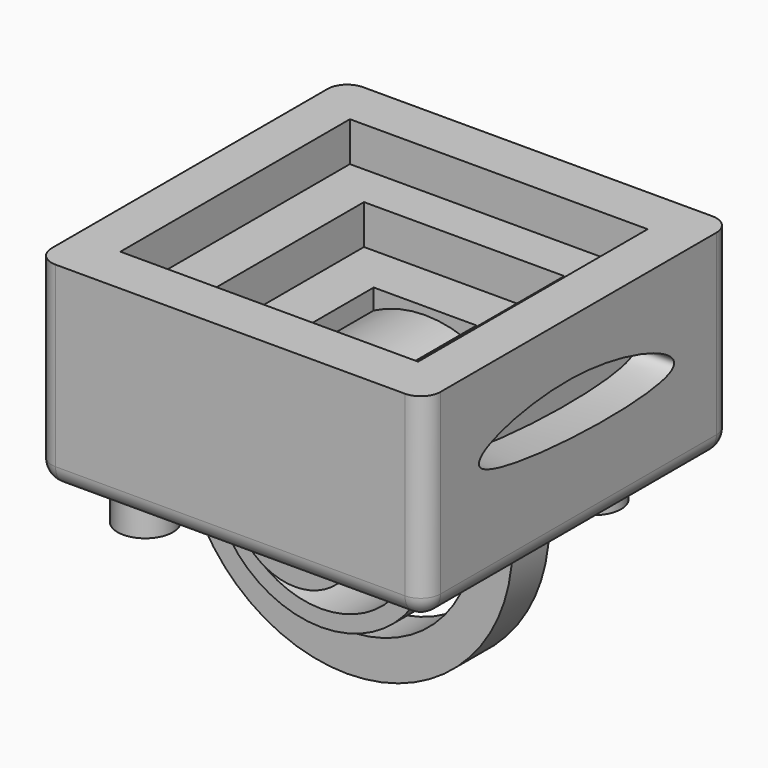
from build123d import *

# Parameters (mm, degrees)
F0_W      = 24.9930880964
F0_H      = 24.6987380087
F1_DEPTH  = 12.7
F2_W      = 19.1328264773
F2_H      = 18.4370856732
F3_DEPTH  = 2.54
F4_W      = 12.8711769357
F4_H      = 12.8711741418
F5_DEPTH  = 2.54
F6_W      = 6.6095204093
F6_H      = 6.6095213406
F7_DEPTH  = 2.54
F8_W      = 1.3914771844
F8_H      = 13.9147825539
F9_ANGLE  = 180
F10_W     = 1.0436060838
F10_H     = 9.0446090326
F12_W     = 2.4350825697
F12_H     = 2.9568914324
F13_ANGLE = 180
F14_R     = 1.27
F15_R     = 1.27
F16_R     = 1.27
F17_R     = 1.27
F18_R     = 1.7737932194
F18_R_2   = 1.7435308636
F19_DEPTH = 2.54
F18_R_3   = 1.7420613373
F18_R_4   = 1.7737943152
F20_DEPTH = 2.54
F22_DEPTH = 2.54
F24_DEPTH = 2.54


with BuildPart() as f1:
    # F0 (on Top) → F1 (new body)
    with BuildSketch(Plane.XY):
        Rectangle(F0_W, F0_H)
    extrude(amount=F1_DEPTH)

    # F2 (on face) → F3 (cut)
    with BuildSketch(Plane.XY.offset(12.7)):
        Rectangle(F2_W, F2_H)
    extrude(amount=-F3_DEPTH, mode=Mode.SUBTRACT)

    # F4 (on face) → F5 (cut)
    with BuildSketch(Plane.XY.offset(10.16)):
        Rectangle(F4_W, F4_H)
    extrude(amount=-F5_DEPTH, mode=Mode.SUBTRACT)

    # F6 (on face) → F7 (cut)
    with BuildSketch(Plane.XY.offset(7.62)):
        Rectangle(F6_W, F6_H)
    extrude(amount=-F7_DEPTH, mode=Mode.SUBTRACT)

    # F8 (on Top) → F9 (revolve)
    with BuildSketch(Plane.XY):
        with Locations((3.304760321, -0.1739347354)):
            Rectangle(F8_W, F8_H)
    revolve(axis=Axis((0, -0.1739347354, 0), (0, 1, 0)), revolution_arc=F9_ANGLE)

    # F10 (on Top) → F11 (revolve)
    with BuildSketch(Plane.XY):
        with Locations((6.6095206421, -0.5218042061)):
            Rectangle(F10_W, F10_H)
    revolve(axis=Axis((0, -0.8696736768, 0), (0, 1, 0)))

    # F12 (on Top) → F13 (revolve)
    with BuildSketch(Plane.XY):
        with Locations((9.392477572, -1.4784457162)):
            Rectangle(F12_W, F12_H)
    revolve(axis=Axis((0, -0.5218046717, 0), (0, 1, 0)), revolution_arc=F13_ANGLE)

    # F14
    f14_edges = [f1.edges().sort_by_distance(p)[0] for p in [
        (0, -12.349369, 0),
    ]]
    fillet(f14_edges, radius=F14_R)

    # F15
    f15_edges = [f1.edges().sort_by_distance(p)[0] for p in [
        (-12.496544, 0.635, 0),
    ]]
    fillet(f15_edges, radius=F15_R)

    # F16
    f16_edges = [f1.edges().sort_by_distance(p)[0] for p in [
        (0.635, 12.349369, 0),
    ]]
    fillet(f16_edges, radius=F16_R)

    # F17
    f17_edges = [f1.edges().sort_by_distance(p)[0] for p in [
        (12.496544, 0, 0),
    ]]
    fillet(f17_edges, radius=F17_R)

    # F18 (on Top) → F19 (join)
    with BuildSketch(Plane.XY):
        with Locations((-8.5228066891, -8.5228048265)):
            Circle(F18_R)
        with Locations((7.5027854182, 7.4880854227)):
            Circle(F18_R_2)
    extrude(amount=-F19_DEPTH)

    # F18 (on Top) → F20 (cut)
    with BuildSketch(Plane.XY):
        with Locations((-7.4791945517, 7.8270649537)):
            Circle(F18_R_3)
        with Locations((7.8270649537, -8.5228048265)):
            Circle(F18_R_4)
    extrude(amount=F20_DEPTH, mode=Mode.SUBTRACT)

    # F21 (on face) → F22 (cut)
    with BuildSketch(Plane.YZ.offset(12.4965440482)):
        with BuildLine():
            add(Edge.make_bspline(
                [(7.4816909619, 6.3803573139), (8.6678256626, 7.222641581), (0.0654100682, 10.7050572044), (-15.1471126917, 6.1563977773), (5.8379660659, 5.2131343851), (7.4816909619, 6.3803573139)],
                knots=[0, 0, 0, 0, 0.294675987, 0.5916431282, 1, 1, 1, 1], degree=3))
        make_face()
    extrude(amount=-F22_DEPTH, mode=Mode.SUBTRACT)

    # F23 (on face) → F24 (cut)
    with BuildSketch(Plane(origin=(-12.4965440482, 0, 0), x_dir=(0, -1, 0), z_dir=(-1, 0, 0))):
        with BuildLine():
            add(Edge.make_bspline(
                [(-7.4785943143, 6.1592552811), (-8.7327498412, 7.2143790552), (-0.1044548846, 11.5753450744), (15.146698404, 5.8495465933), (-5.7683471063, 4.7204205831), (-7.4785943143, 6.1592552811)],
                knots=[0, 0, 0, 0, 0.2971718348, 0.5947573567, 1, 1, 1, 1], degree=3))
        make_face()
    extrude(amount=-F24_DEPTH, mode=Mode.SUBTRACT)


solid = f1.part
